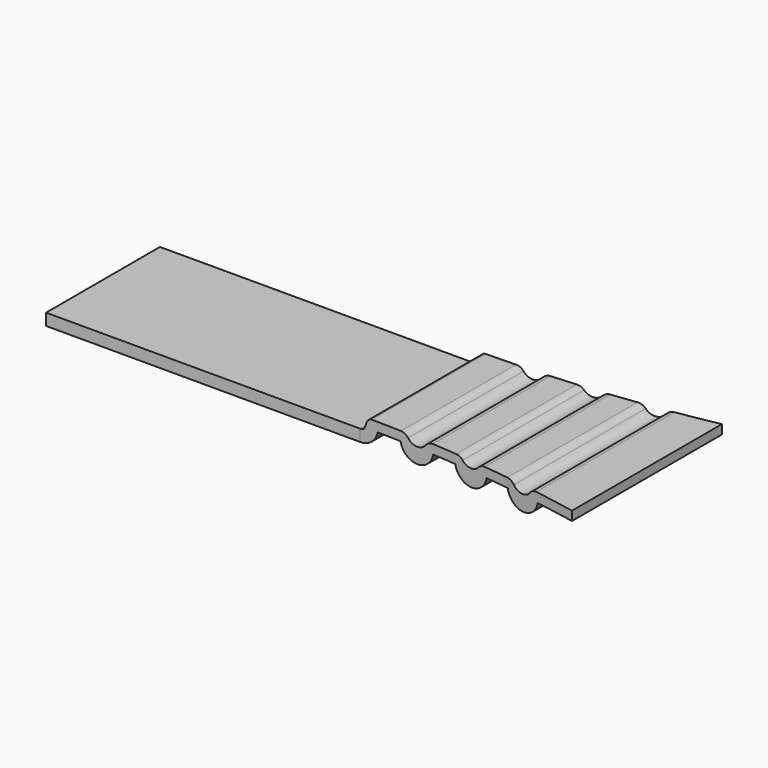
from build123d import *

# Parameters (mm, degrees)
F1_DEPTH = 25.4
F2_W     = 42.545
F2_H     = 3.057748
F3_DEPTH = 12.7
F4_R     = 1.27


with BuildPart() as f1:
    # F0 (on Front) → F1 (new body)
    with BuildSketch(Plane.XZ):
        with BuildLine():
            Line((42.545, 0), (0, 0))
            Line((0, 0), (0, -1.5875))
            Line((0, -1.5875), (42.622831, -1.5875))
            ThreePointArc((42.622831, -1.5875), (44.12669, -1.039864), (44.92625, 0.346572))
            Line((44.92625, 0.346572), (48.10125, 0.346572))
            ThreePointArc((48.10125, 0.346572), (48.90081, -1.039864), (50.404669, -1.5875))
            ThreePointArc((50.404669, -1.5875), (51.908529, -1.039864), (52.708089, 0.346572))
            Line((52.708089, 0.346572), (55.883089, 0.346572))
            ThreePointArc((55.883089, 0.346572), (56.682648, -1.039864), (58.186508, -1.5875))
            ThreePointArc((58.186508, -1.5875), (59.690368, -1.039864), (60.489927, 0.346572))
            Line((60.489927, 0.346572), (63.664927, 0.346572))
            ThreePointArc((63.664927, 0.346572), (64.464487, -1.039864), (65.968346, -1.5875))
            ThreePointArc((65.968346, -1.5875), (67.472206, -1.039864), (68.271766, 0.346572))
            Line((68.271766, 0.346572), (73.691467, 0.346572))
            Line((73.691467, 0.346572), (73.691467, 1.5875))
            Line((73.691467, 1.5875), (67.341467, 1.5875))
            ThreePointArc((67.341467, 1.5875), (65.833294, 0.495549), (64.32512, 1.5875))
            Line((64.32512, 1.5875), (59.56262, 1.5875))
            ThreePointArc((59.56262, 1.5875), (58.119729, 0.661984), (56.676839, 1.5875))
            Line((56.676839, 1.5875), (51.914339, 1.5875))
            ThreePointArc((51.914339, 1.5875), (50.404669, 0.490973), (48.895, 1.5875))
            Line((48.895, 1.5875), (44.1325, 1.5875))
            add(Edge.make_bspline(
                [(42.545, 0), (43.173972, 0), (43.24261, 0.79375), (43.695807, 1.5875), (44.1325, 1.5875)],
                knots=[0, 0, 0, 0, 1.122532, 2.245064, 2.245064, 2.245064, 2.245064], degree=3))
        make_face()
    extrude(amount=F1_DEPTH)

    # F2 (on face) → F3 (cut, symmetric)
    with BuildSketch(Plane.XY):
        with Locations((21.2725, -1.528874)):
            Rectangle(F2_W, F2_H)
        with BuildLine():
            Line((42.545, 0), (42.545, -3.057748))
            ThreePointArc((42.545, -3.057748), (58.193101, -2.291478), (73.691467, 0))
            Line((73.691467, 0), (42.545, 0))
        make_face()
        with Locations((21.2725, -23.871126)):
            Rectangle(F2_W, F2_H)
        with BuildLine():
            ThreePointArc((73.691467, -25.4), (58.193101, -23.108522), (42.545, -22.342252))
            Line((42.545, -22.342252), (42.545, -25.4))
            Line((42.545, -25.4), (73.691467, -25.4))
        make_face()
    extrude(amount=F3_DEPTH, both=True, mode=Mode.SUBTRACT)

    # F4
    f4_edges = [f1.edges().sort_by_distance(p)[0] for p in [
        (48.895, -12.7, 1.5875),
        (44.1325, -12.7, 1.5875),
        (51.914339, -12.7, 1.5875),
        (56.676839, -12.7, 1.5875),
        (59.56262, -12.7, 1.5875),
        (64.32512, -12.7, 1.5875),
        (67.341467, -12.7, 1.5875),
    ]]
    fillet(f4_edges, radius=F4_R)


solid = f1.part
